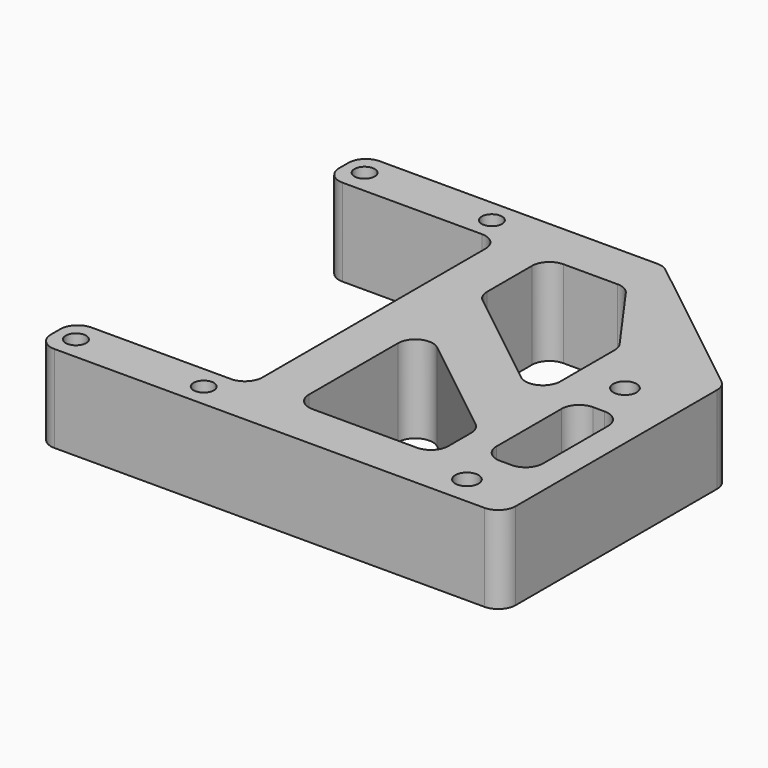
from build123d import *

# Parameters (mm, degrees)
F0_R     = 1.75
F0_R_2   = 2
F1_DEPTH = 15


with BuildPart() as f1:
    # F0 (on Top) → F1 (new body)
    with BuildSketch(Plane.XY):
        with BuildLine():
            ThreePointArc((4.4705081946, 34.1311327705), (3.5950567719, 34.6111450962), (2.6105643925, 34.7772829339))
            Line((2.6105643925, 34.7772829339), (-45.2081770897, 34.7772829339))
            ThreePointArc((-45.2081770897, 34.7772829339), (-47.3294974333, 33.8986032775), (-48.2081770897, 31.7772829339))
            Line((-48.2081770897, 31.7772829339), (-48.2081770897, 29.7772829339))
            ThreePointArc((-48.2081770897, 29.7772829339), (-47.3294974333, 27.6559625904), (-45.2081770897, 26.7772829339))
            Line((-45.2081770897, 26.7772829339), (-21.2081770897, 26.7772829339))
            ThreePointArc((-21.2081770897, 26.7772829339), (-19.0868567461, 25.8986032775), (-18.2081770897, 23.7772829339))
            Line((-18.2081770897, 23.7772829339), (-18.2081770897, -24.2227170661))
            ThreePointArc((-18.2081770897, -24.2227170661), (-19.0868567461, -26.3440374096), (-21.2081770897, -27.2227170661))
            Line((-21.2081770897, -27.2227170661), (-45.2081770897, -27.2227170661))
            ThreePointArc((-45.2081770897, -27.2227170661), (-47.3294974333, -28.1013967225), (-48.2081770897, -30.2227170661))
            Line((-48.2081770897, -30.2227170661), (-48.2081770897, -32.2227170661))
            ThreePointArc((-48.2081770897, -32.2227170661), (-47.3294974333, -34.3440374096), (-45.2081770897, -35.2227170661))
            Line((-45.2081770897, -35.2227170661), (28.7918229103, -35.2227170661))
            ThreePointArc((28.7918229103, -35.2227170661), (30.9131432539, -34.3440374096), (31.7918229103, -32.2227170661))
            Line((31.7918229103, -32.2227170661), (31.7918229103, 11.0896125673))
            ThreePointArc((31.7918229103, 11.0896125673), (31.4918072997, 12.3973144816), (30.6517667124, 13.4434624038))
            Line((30.6517667124, 13.4434624038), (13.7918229103, 26.7657005056))
            Line((13.7918229103, 26.7657005056), (13.7771647808, 26.7772829339))
            Line((13.7771647808, 26.7772829339), (4.4705081946, 34.1311327705))
        make_face()
        with Locations((-44.7081770897, -31.2227170661)):
            Circle(F0_R, mode=Mode.SUBTRACT)
        with Locations((-22.7081770897, -31.2227170661)):
            Circle(F0_R, mode=Mode.SUBTRACT)
        with Locations((21.7918229103, -30.2227170661)):
            Circle(F0_R_2, mode=Mode.SUBTRACT)
        with BuildLine():
            Line((10.7918229103, -27.2227170661), (-7.2081770897, -27.2227170661))
            ThreePointArc((-7.2081770897, -27.2227170661), (-9.3294974333, -26.3440374096), (-10.2081770897, -24.2227170661))
            Line((-10.2081770897, -24.2227170661), (-10.2081770897, -5.0720059582))
            ThreePointArc((-10.2081770897, -5.0720059582), (-8.5158790041, -2.3720215688), (-5.3482332876, -2.7181561216))
            Line((-5.3482332876, -2.7181561216), (12.6517667124, -16.941233532))
            ThreePointArc((12.6517667124, -16.941233532), (13.4918072997, -17.9873814542), (13.7918229103, -19.2950833685))
            Line((13.7918229103, -19.2950833685), (13.7918229103, -24.2227170661))
            ThreePointArc((13.7918229103, -24.2227170661), (12.9131432539, -26.3440374096), (10.7918229103, -27.2227170661))
        make_face(mode=Mode.SUBTRACT)
        with BuildLine():
            ThreePointArc((18.8984889537, -6.2227170661), (19.7771686101, -4.1013967225), (21.8984889537, -3.2227170661))
            Line((21.8984889537, -3.2227170661), (23.8984889537, -3.2227170661))
            ThreePointArc((23.8984889537, -3.2227170661), (26.0198092973, -4.1013967225), (26.8984889537, -6.2227170661))
            Line((26.8984889537, -6.2227170661), (26.8984889537, -20.2227170661))
            ThreePointArc((26.8984889537, -20.2227170661), (26.0198092973, -22.3440374096), (23.8984889537, -23.2227170661))
            Line((23.8984889537, -23.2227170661), (21.8984889537, -23.2227170661))
            ThreePointArc((21.8984889537, -23.2227170661), (19.7771686101, -22.3440374096), (18.8984889537, -20.2227170661))
            Line((18.8984889537, -20.2227170661), (18.8984889537, -6.2227170661))
        make_face(mode=Mode.SUBTRACT)
        with Locations((-44.7081770897, 30.8822728693)):
            Circle(F0_R, mode=Mode.SUBTRACT)
        with Locations((-22.7081770897, 30.7772829339)):
            Circle(F0_R, mode=Mode.SUBTRACT)
        with BuildLine():
            ThreePointArc((-10.2081770897, 23.7772829339), (-9.3294974333, 25.8986032775), (-7.2081770897, 26.7772829339))
            Line((-7.2081770897, 26.7772829339), (2.1063956214, 26.7772829339))
            ThreePointArc((2.1063956214, 26.7772829339), (3.4809139878, 26.4438723774), (4.5499130653, 25.5177491075))
            Line((4.5499130653, 25.5177491075), (13.2353403542, 13.3238935696))
            ThreePointArc((13.2353403542, 13.3238935696), (13.6493176462, 12.4970596164), (13.7918229103, 11.583427396))
            Line((13.7918229103, 11.583427396), (13.7918229103, -0.1256085036))
            ThreePointArc((13.7918229103, -0.1256085036), (12.0995248247, -2.825592893), (8.9318791082, -2.4794583402))
            Line((8.9318791082, -2.4794583402), (-9.0681208918, 11.7436190702))
            ThreePointArc((-9.0681208918, 11.7436190702), (-9.9081614791, 12.7897669924), (-10.2081770897, 14.0974689067))
            Line((-10.2081770897, 14.0974689067), (-10.2081770897, 23.7772829339))
        make_face(mode=Mode.SUBTRACT)
        with Locations((21.7918229103, 3.7772829339)):
            Circle(F0_R_2, mode=Mode.SUBTRACT)
    extrude(amount=F1_DEPTH)


solid = f1.part
